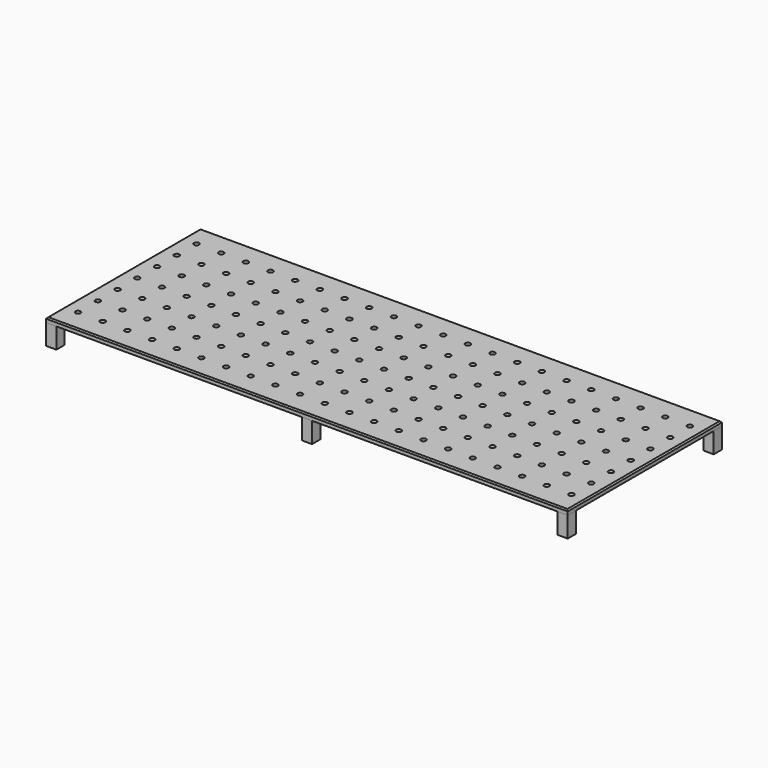
from build123d import *

# Parameters (mm, degrees)
F0_W     = 2030
F0_H     = 750
F0_R     = 10
F1_DEPTH = 18
F2_SIZE  = 5
F3_W     = 40
F3_H     = 40
F4_DEPTH = 80
F5_DEPTH = 80


with BuildPart() as f1:
    # F0 (on Top) → F1 (new body)
    with BuildSketch(Plane.XY):
        Rectangle(F0_W, F0_H)
        with Locations((-960, -288)):
            Circle(F0_R, mode=Mode.SUBTRACT)
        with Locations((-864, -288)):
            Circle(F0_R, mode=Mode.SUBTRACT)
        with Locations((-768, -288)):
            Circle(F0_R, mode=Mode.SUBTRACT)
        with Locations((-672, -288)):
            Circle(F0_R, mode=Mode.SUBTRACT)
        with Locations((-576, -288)):
            Circle(F0_R, mode=Mode.SUBTRACT)
        with Locations((-960, -192)):
            Circle(F0_R, mode=Mode.SUBTRACT)
        with Locations((-864, -192)):
            Circle(F0_R, mode=Mode.SUBTRACT)
        with Locations((-768, -192)):
            Circle(F0_R, mode=Mode.SUBTRACT)
        with Locations((-672, -192)):
            Circle(F0_R, mode=Mode.SUBTRACT)
        with Locations((-576, -192)):
            Circle(F0_R, mode=Mode.SUBTRACT)
        with Locations((-480, -288)):
            Circle(F0_R, mode=Mode.SUBTRACT)
        with Locations((-384, -288)):
            Circle(F0_R, mode=Mode.SUBTRACT)
        with Locations((-288, -288)):
            Circle(F0_R, mode=Mode.SUBTRACT)
        with Locations((-192, -288)):
            Circle(F0_R, mode=Mode.SUBTRACT)
        with Locations((-96, -288)):
            Circle(F0_R, mode=Mode.SUBTRACT)
        with Locations((0, -288)):
            Circle(F0_R, mode=Mode.SUBTRACT)
        with Locations((-480, -192)):
            Circle(F0_R, mode=Mode.SUBTRACT)
        with Locations((-384, -192)):
            Circle(F0_R, mode=Mode.SUBTRACT)
        with Locations((-288, -192)):
            Circle(F0_R, mode=Mode.SUBTRACT)
        with Locations((-192, -192)):
            Circle(F0_R, mode=Mode.SUBTRACT)
        with Locations((-96, -192)):
            Circle(F0_R, mode=Mode.SUBTRACT)
        with Locations((0, -192)):
            Circle(F0_R, mode=Mode.SUBTRACT)
        with Locations((-960, -96)):
            Circle(F0_R, mode=Mode.SUBTRACT)
        with Locations((-864, -96)):
            Circle(F0_R, mode=Mode.SUBTRACT)
        with Locations((-768, -96)):
            Circle(F0_R, mode=Mode.SUBTRACT)
        with Locations((-672, -96)):
            Circle(F0_R, mode=Mode.SUBTRACT)
        with Locations((-576, -96)):
            Circle(F0_R, mode=Mode.SUBTRACT)
        with Locations((-480, -96)):
            Circle(F0_R, mode=Mode.SUBTRACT)
        with Locations((-384, -96)):
            Circle(F0_R, mode=Mode.SUBTRACT)
        with Locations((-288, -96)):
            Circle(F0_R, mode=Mode.SUBTRACT)
        with Locations((-192, -96)):
            Circle(F0_R, mode=Mode.SUBTRACT)
        with Locations((-96, -96)):
            Circle(F0_R, mode=Mode.SUBTRACT)
        with Locations((0, -96)):
            Circle(F0_R, mode=Mode.SUBTRACT)
        with Locations((96, -288)):
            Circle(F0_R, mode=Mode.SUBTRACT)
        with Locations((192, -288)):
            Circle(F0_R, mode=Mode.SUBTRACT)
        with Locations((288, -288)):
            Circle(F0_R, mode=Mode.SUBTRACT)
        with Locations((384, -288)):
            Circle(F0_R, mode=Mode.SUBTRACT)
        with Locations((480, -288)):
            Circle(F0_R, mode=Mode.SUBTRACT)
        with Locations((96, -192)):
            Circle(F0_R, mode=Mode.SUBTRACT)
        with Locations((192, -192)):
            Circle(F0_R, mode=Mode.SUBTRACT)
        with Locations((288, -192)):
            Circle(F0_R, mode=Mode.SUBTRACT)
        with Locations((384, -192)):
            Circle(F0_R, mode=Mode.SUBTRACT)
        with Locations((480, -192)):
            Circle(F0_R, mode=Mode.SUBTRACT)
        with Locations((576, -288)):
            Circle(F0_R, mode=Mode.SUBTRACT)
        with Locations((672, -288)):
            Circle(F0_R, mode=Mode.SUBTRACT)
        with Locations((768, -288)):
            Circle(F0_R, mode=Mode.SUBTRACT)
        with Locations((864, -288)):
            Circle(F0_R, mode=Mode.SUBTRACT)
        with Locations((960, -288)):
            Circle(F0_R, mode=Mode.SUBTRACT)
        with Locations((576, -192)):
            Circle(F0_R, mode=Mode.SUBTRACT)
        with Locations((672, -192)):
            Circle(F0_R, mode=Mode.SUBTRACT)
        with Locations((768, -192)):
            Circle(F0_R, mode=Mode.SUBTRACT)
        with Locations((864, -192)):
            Circle(F0_R, mode=Mode.SUBTRACT)
        with Locations((960, -192)):
            Circle(F0_R, mode=Mode.SUBTRACT)
        with Locations((96, -96)):
            Circle(F0_R, mode=Mode.SUBTRACT)
        with Locations((192, -96)):
            Circle(F0_R, mode=Mode.SUBTRACT)
        with Locations((288, -96)):
            Circle(F0_R, mode=Mode.SUBTRACT)
        with Locations((384, -96)):
            Circle(F0_R, mode=Mode.SUBTRACT)
        with Locations((480, -96)):
            Circle(F0_R, mode=Mode.SUBTRACT)
        with Locations((576, -96)):
            Circle(F0_R, mode=Mode.SUBTRACT)
        with Locations((672, -96)):
            Circle(F0_R, mode=Mode.SUBTRACT)
        with Locations((768, -96)):
            Circle(F0_R, mode=Mode.SUBTRACT)
        with Locations((864, -96)):
            Circle(F0_R, mode=Mode.SUBTRACT)
        with Locations((960, -96)):
            Circle(F0_R, mode=Mode.SUBTRACT)
        with Locations((-960, 0)):
            Circle(F0_R, mode=Mode.SUBTRACT)
        with Locations((-864, 0)):
            Circle(F0_R, mode=Mode.SUBTRACT)
        with Locations((-768, 0)):
            Circle(F0_R, mode=Mode.SUBTRACT)
        with Locations((-672, 0)):
            Circle(F0_R, mode=Mode.SUBTRACT)
        with Locations((-576, 0)):
            Circle(F0_R, mode=Mode.SUBTRACT)
        with Locations((-960, 96)):
            Circle(F0_R, mode=Mode.SUBTRACT)
        with Locations((-864, 96)):
            Circle(F0_R, mode=Mode.SUBTRACT)
        with Locations((-768, 96)):
            Circle(F0_R, mode=Mode.SUBTRACT)
        with Locations((-672, 96)):
            Circle(F0_R, mode=Mode.SUBTRACT)
        with Locations((-576, 96)):
            Circle(F0_R, mode=Mode.SUBTRACT)
        with Locations((-480, 0)):
            Circle(F0_R, mode=Mode.SUBTRACT)
        with Locations((-384, 0)):
            Circle(F0_R, mode=Mode.SUBTRACT)
        with Locations((-288, 0)):
            Circle(F0_R, mode=Mode.SUBTRACT)
        with Locations((-192, 0)):
            Circle(F0_R, mode=Mode.SUBTRACT)
        with Locations((-96, 0)):
            Circle(F0_R, mode=Mode.SUBTRACT)
        Circle(F0_R, mode=Mode.SUBTRACT)
        with Locations((-480, 96)):
            Circle(F0_R, mode=Mode.SUBTRACT)
        with Locations((-384, 96)):
            Circle(F0_R, mode=Mode.SUBTRACT)
        with Locations((-288, 96)):
            Circle(F0_R, mode=Mode.SUBTRACT)
        with Locations((-192, 96)):
            Circle(F0_R, mode=Mode.SUBTRACT)
        with Locations((-96, 96)):
            Circle(F0_R, mode=Mode.SUBTRACT)
        with Locations((0, 96)):
            Circle(F0_R, mode=Mode.SUBTRACT)
        with Locations((-960, 192)):
            Circle(F0_R, mode=Mode.SUBTRACT)
        with Locations((-864, 192)):
            Circle(F0_R, mode=Mode.SUBTRACT)
        with Locations((-768, 192)):
            Circle(F0_R, mode=Mode.SUBTRACT)
        with Locations((-672, 192)):
            Circle(F0_R, mode=Mode.SUBTRACT)
        with Locations((-576, 192)):
            Circle(F0_R, mode=Mode.SUBTRACT)
        with Locations((-960, 288)):
            Circle(F0_R, mode=Mode.SUBTRACT)
        with Locations((-864, 288)):
            Circle(F0_R, mode=Mode.SUBTRACT)
        with Locations((-768, 288)):
            Circle(F0_R, mode=Mode.SUBTRACT)
        with Locations((-672, 288)):
            Circle(F0_R, mode=Mode.SUBTRACT)
        with Locations((-576, 288)):
            Circle(F0_R, mode=Mode.SUBTRACT)
        with Locations((-480, 192)):
            Circle(F0_R, mode=Mode.SUBTRACT)
        with Locations((-384, 192)):
            Circle(F0_R, mode=Mode.SUBTRACT)
        with Locations((-288, 192)):
            Circle(F0_R, mode=Mode.SUBTRACT)
        with Locations((-192, 192)):
            Circle(F0_R, mode=Mode.SUBTRACT)
        with Locations((-96, 192)):
            Circle(F0_R, mode=Mode.SUBTRACT)
        with Locations((0, 192)):
            Circle(F0_R, mode=Mode.SUBTRACT)
        with Locations((-480, 288)):
            Circle(F0_R, mode=Mode.SUBTRACT)
        with Locations((-384, 288)):
            Circle(F0_R, mode=Mode.SUBTRACT)
        with Locations((-288, 288)):
            Circle(F0_R, mode=Mode.SUBTRACT)
        with Locations((-192, 288)):
            Circle(F0_R, mode=Mode.SUBTRACT)
        with Locations((-96, 288)):
            Circle(F0_R, mode=Mode.SUBTRACT)
        with Locations((0, 288)):
            Circle(F0_R, mode=Mode.SUBTRACT)
        with Locations((96, 0)):
            Circle(F0_R, mode=Mode.SUBTRACT)
        with Locations((192, 0)):
            Circle(F0_R, mode=Mode.SUBTRACT)
        with Locations((288, 0)):
            Circle(F0_R, mode=Mode.SUBTRACT)
        with Locations((384, 0)):
            Circle(F0_R, mode=Mode.SUBTRACT)
        with Locations((480, 0)):
            Circle(F0_R, mode=Mode.SUBTRACT)
        with Locations((96, 96)):
            Circle(F0_R, mode=Mode.SUBTRACT)
        with Locations((192, 96)):
            Circle(F0_R, mode=Mode.SUBTRACT)
        with Locations((288, 96)):
            Circle(F0_R, mode=Mode.SUBTRACT)
        with Locations((384, 96)):
            Circle(F0_R, mode=Mode.SUBTRACT)
        with Locations((480, 96)):
            Circle(F0_R, mode=Mode.SUBTRACT)
        with Locations((576, 0)):
            Circle(F0_R, mode=Mode.SUBTRACT)
        with Locations((672, 0)):
            Circle(F0_R, mode=Mode.SUBTRACT)
        with Locations((768, 0)):
            Circle(F0_R, mode=Mode.SUBTRACT)
        with Locations((864, 0)):
            Circle(F0_R, mode=Mode.SUBTRACT)
        with Locations((960, 0)):
            Circle(F0_R, mode=Mode.SUBTRACT)
        with Locations((576, 96)):
            Circle(F0_R, mode=Mode.SUBTRACT)
        with Locations((672, 96)):
            Circle(F0_R, mode=Mode.SUBTRACT)
        with Locations((768, 96)):
            Circle(F0_R, mode=Mode.SUBTRACT)
        with Locations((864, 96)):
            Circle(F0_R, mode=Mode.SUBTRACT)
        with Locations((960, 96)):
            Circle(F0_R, mode=Mode.SUBTRACT)
        with Locations((96, 192)):
            Circle(F0_R, mode=Mode.SUBTRACT)
        with Locations((192, 192)):
            Circle(F0_R, mode=Mode.SUBTRACT)
        with Locations((288, 192)):
            Circle(F0_R, mode=Mode.SUBTRACT)
        with Locations((384, 192)):
            Circle(F0_R, mode=Mode.SUBTRACT)
        with Locations((480, 192)):
            Circle(F0_R, mode=Mode.SUBTRACT)
        with Locations((96, 288)):
            Circle(F0_R, mode=Mode.SUBTRACT)
        with Locations((192, 288)):
            Circle(F0_R, mode=Mode.SUBTRACT)
        with Locations((288, 288)):
            Circle(F0_R, mode=Mode.SUBTRACT)
        with Locations((384, 288)):
            Circle(F0_R, mode=Mode.SUBTRACT)
        with Locations((480, 288)):
            Circle(F0_R, mode=Mode.SUBTRACT)
        with Locations((576, 192)):
            Circle(F0_R, mode=Mode.SUBTRACT)
        with Locations((672, 192)):
            Circle(F0_R, mode=Mode.SUBTRACT)
        with Locations((768, 192)):
            Circle(F0_R, mode=Mode.SUBTRACT)
        with Locations((864, 192)):
            Circle(F0_R, mode=Mode.SUBTRACT)
        with Locations((960, 192)):
            Circle(F0_R, mode=Mode.SUBTRACT)
        with Locations((576, 288)):
            Circle(F0_R, mode=Mode.SUBTRACT)
        with Locations((672, 288)):
            Circle(F0_R, mode=Mode.SUBTRACT)
        with Locations((768, 288)):
            Circle(F0_R, mode=Mode.SUBTRACT)
        with Locations((864, 288)):
            Circle(F0_R, mode=Mode.SUBTRACT)
        with Locations((960, 288)):
            Circle(F0_R, mode=Mode.SUBTRACT)
    extrude(amount=F1_DEPTH)

    # F2
    f2_edges = [f1.edges().sort_by_distance(p)[0] for p in [
        (0, 375, 18),
        (-1015, 0, 18),
        (0, -375, 18),
        (1015, 0, 18),
    ]]
    chamfer(f2_edges, length=F2_SIZE)


with BuildPart() as f4:
    # F3 (on face) → F4 (new body)
    with BuildSketch(Plane(origin=(0, 0, 0), x_dir=(1, 0, 0), z_dir=(0, 0, -1))):
        with Locations((-995, 355)):
            Rectangle(F3_W, F3_H)
        with Locations((995, 355)):
            Rectangle(F3_W, F3_H)
        with Locations((-995, -355)):
            Rectangle(F3_W, F3_H)
        with Locations((995, -355)):
            Rectangle(F3_W, F3_H)
        with Locations((0, 355)):
            Rectangle(F3_W, F3_H)
        with Locations((0, -355)):
            Rectangle(F3_W, F3_H)
    extrude(amount=F4_DEPTH)


with BuildPart() as f5:
    # F3 (on face) → F5 (new body)
    with BuildSketch(Plane(origin=(0, 0, 0), x_dir=(1, 0, 0), z_dir=(0, 0, -1))):
        with Locations((-995, 355)):
            Rectangle(F3_W, F3_H)
        with Locations((995, 355)):
            Rectangle(F3_W, F3_H)
        with Locations((-995, -355)):
            Rectangle(F3_W, F3_H)
        with Locations((995, -355)):
            Rectangle(F3_W, F3_H)
        with Locations((0, 355)):
            Rectangle(F3_W, F3_H)
        with Locations((0, -355)):
            Rectangle(F3_W, F3_H)
    extrude(amount=F5_DEPTH)


solid = Compound([f1.part, f4.part, f5.part])
